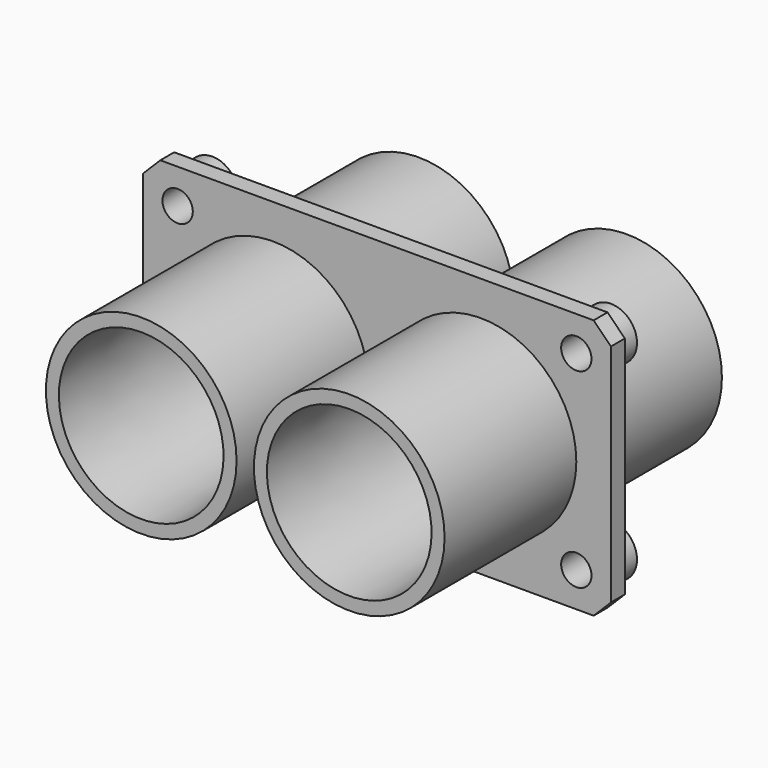
from build123d import *

# Parameters (mm, degrees)
F4_W      = 85.725
F4_H      = 47.625
F5_DEPTH  = 3.175
F6_R      = 17.4625
F7_DEPTH  = 30.1625
F8_R      = 17.4625
F9_DEPTH  = 33.3375
F14_SIZE  = 3.175
F15_R     = 4.7625
F16_DEPTH = 7.9375
F17_R     = 2.778125
F18_DEPTH = 25.4


with BuildPart() as f5:
    # F4 (on Front) → F5 (new body, through all)
    with BuildSketch(Plane.XZ):
        Rectangle(F4_W, F4_H)
    extrude(amount=-F5_DEPTH)

    # F6 (on Front) → F7 (join, through all)
    with BuildSketch(Plane.XZ):
        with Locations((19.05, 0)):
            Circle(F6_R)
        with Locations((-19.05, 0)):
            Circle(F6_R)
    extrude(amount=F7_DEPTH)

    # F8 (on Front) → F9 (join, through all)
    with BuildSketch(Plane.XZ):
        with Locations((19.05, 0)):
            Circle(F8_R)
        with Locations((-19.05, 0)):
            Circle(F8_R)
    extrude(amount=-F9_DEPTH)

    # F10 (on plane+point) → F12 (revolve, cut)
    with BuildSketch(Plane.YZ.offset(-19.05)):
        Polygon((0, 14.554762), (-37.202075, 15.204126), (-37.202075, 0), (35.393614, 0), (35.393614, 15.11714), (3.175, 14.554762), (3.175, 11.1125), (0, 11.1125), align=None)
    revolve(axis=Axis((-19.05, -0.90423, 0), (0, 1, 0)), mode=Mode.SUBTRACT)

    # F11 (on plane+point) → F13 (revolve, cut)
    with BuildSketch(Plane.YZ.offset(19.05)):
        Polygon((0, 14.554762), (-37.202075, 15.204126), (-37.202075, 0), (35.393614, 0), (35.393614, 15.11714), (3.175, 14.554762), (3.175, 11.1125), (0, 11.1125), align=None)
    revolve(axis=Axis((19.05, -0.90423, 0), (0, 1, 0)), mode=Mode.SUBTRACT)

    # F14
    f14_edges = [f5.edges().sort_by_distance(p)[0] for p in [
        (-42.8625, 1.5875, 23.8125),
        (42.8625, 1.5875, 23.8125),
        (42.8625, 1.5875, -23.8125),
        (-42.8625, 1.5875, -23.8125),
    ]]
    chamfer(f14_edges, length=F14_SIZE)

    # F15 (on Front) → F16 (join)
    with BuildSketch(Plane.XZ):
        with Locations((36.5125, 17.4625)):
            Circle(F15_R)
        with Locations((-36.5125, 17.4625)):
            Circle(F15_R)
        with Locations((-36.5125, -17.4625)):
            Circle(F15_R)
        with Locations((36.5125, -17.4625)):
            Circle(F15_R)
    extrude(amount=-F16_DEPTH)

    # F17 (on Front) → F18 (cut)
    with BuildSketch(Plane.XZ):
        with Locations((-36.5125, 17.4625)):
            Circle(F17_R)
        with Locations((36.5125, 17.4625)):
            Circle(F17_R)
        with Locations((-36.5125, -17.4625)):
            Circle(F17_R)
        with Locations((36.5125, -17.4625)):
            Circle(F17_R)
    extrude(amount=-F18_DEPTH, mode=Mode.SUBTRACT)


solid = f5.part
